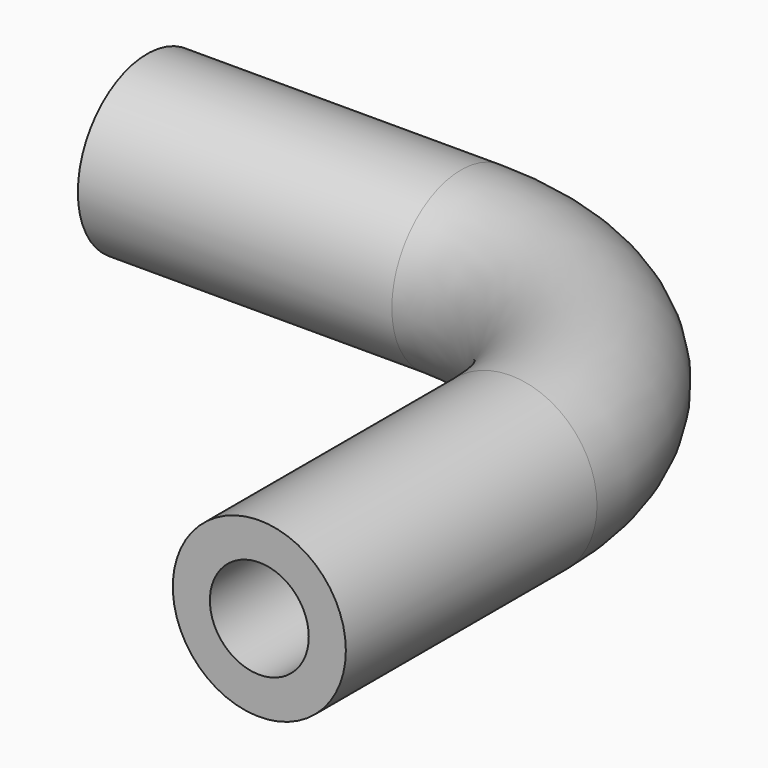
from build123d import *

# Parameters (mm, degrees)
F0_R     = 3.5
F0_R_2   = 2
F1_DEPTH = 12.7
F2_R     = 3.5
F2_R_2   = 2
F3_ANGLE = 90
F4_R     = 3.5
F4_R_2   = 2
F5_DEPTH = 12.7


with BuildPart() as f1:
    # F0 (on Front) → F1 (new body)
    with BuildSketch(Plane.XZ):
        with Locations((-3.4743943252, 10.0819980726)):
            Circle(F0_R)
        with Locations((-3.4743943252, 10.0819980726)):
            Circle(F0_R_2, mode=Mode.SUBTRACT)
    extrude(amount=F1_DEPTH)

    # F2 (on face) → F3 (revolve)
    with BuildSketch(Plane(origin=(0, 0, 0), x_dir=(-1, 0, 0), z_dir=(0, 1, 0))):
        with Locations((3.4743943252, 10.0819980726)):
            Circle(F2_R)
        with Locations((3.4743943252, 10.0819980726)):
            Circle(F2_R_2, mode=Mode.SUBTRACT)
    revolve(axis=Axis((-13.4743943252, 0, 9.8893858958), (0, 0, 1)), revolution_arc=F3_ANGLE)

    # F4 (on face) → F5 (join)
    with BuildSketch(Plane(origin=(-13.4743943252, 0, 0), x_dir=(0, -1, 0), z_dir=(-1, 0, 0))):
        with Locations((-10, 10.0819980726)):
            Circle(F4_R)
        with Locations((-10, 10.0819980726)):
            Circle(F4_R_2, mode=Mode.SUBTRACT)
    extrude(amount=F5_DEPTH)


solid = f1.part
